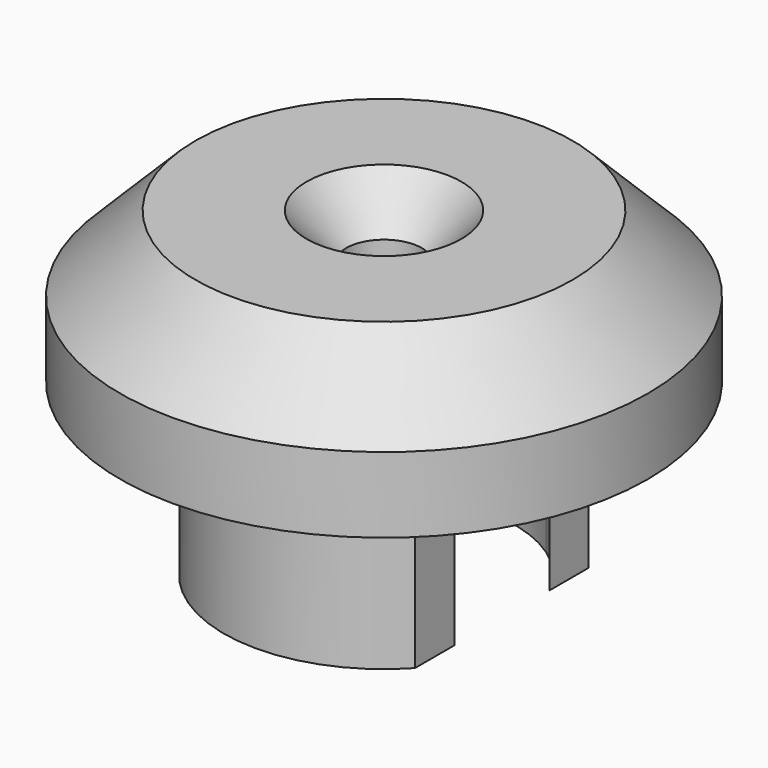
from build123d import *

# Parameters (mm, degrees)
F0_R           = 17.78
F1_DEPTH       = 10.16
F3_D           = 5.1054
F3_CSINK_D     = 10.4394
F3_CSINK_ANGLE = 82
F5_DEPTH       = 11.43
F4_R           = 6.35
F6_DEPTH       = 4.445
F7_SIZE        = 5.08


with BuildPart() as f1:
    # F0 (on Top) → F1 (new body)
    with BuildSketch(Plane.XY):
        Circle(F0_R)
    extrude(amount=F1_DEPTH)

    # F3 (through all)
    with Locations(Plane.XY.offset(10.16)):
        with Locations((0, 0)):
            CounterSinkHole(F3_D / 2, F3_CSINK_D / 2, counter_sink_angle=F3_CSINK_ANGLE)

    # F4 (on Top) → F5 (join)
    with BuildSketch(Plane.XY):
        with BuildLine():
            Line((5.0501466563, 7.3162913248), (7.9375, 7.3162913248))
            ThreePointArc((7.9375, 7.3162913248), (0, 10.795), (-7.9375, 7.3162913248))
            Line((-7.9375, 7.3162913248), (-5.0501466563, 7.3162913248))
            ThreePointArc((-5.0501466563, 7.3162913248), (0, 8.89), (5.0501466563, 7.3162913248))
        make_face()
        with BuildLine():
            Line((7.9375, 4.0035226676), (7.9375, 7.3162913248))
            Line((7.9375, 7.3162913248), (5.0501466563, 7.3162913248))
            ThreePointArc((5.0501466563, 7.3162913248), (6.7017423452, 5.8411257082), (7.9375, 4.0035226676))
        make_face()
        with BuildLine():
            Line((-5.0501466563, 7.3162913248), (-7.9375, 7.3162913248))
            Line((-7.9375, 7.3162913248), (-7.9375, 4.0035226676))
            ThreePointArc((-7.9375, 4.0035226676), (-6.7017423452, 5.8411257082), (-5.0501466563, 7.3162913248))
        make_face()
        with BuildLine():
            Line((-7.9375, -4.0035226676), (-7.9375, -7.3162913248))
            Line((-7.9375, -7.3162913248), (-5.0501466563, -7.3162913248))
            ThreePointArc((-5.0501466563, -7.3162913248), (-6.7017423452, -5.8411257082), (-7.9375, -4.0035226676))
        make_face()
        with BuildLine():
            ThreePointArc((-7.9375, -7.3162913248), (0, -10.795), (7.9375, -7.3162913248))
            Line((7.9375, -7.3162913248), (5.0501466563, -7.3162913248))
            ThreePointArc((5.0501466563, -7.3162913248), (0, -8.89), (-5.0501466563, -7.3162913248))
            Line((-5.0501466563, -7.3162913248), (-7.9375, -7.3162913248))
        make_face()
        with BuildLine():
            Line((5.0501466563, -7.3162913248), (7.9375, -7.3162913248))
            Line((7.9375, -7.3162913248), (7.9375, -4.0035226676))
            ThreePointArc((7.9375, -4.0035226676), (6.7017423452, -5.8411257082), (5.0501466563, -7.3162913248))
        make_face()
    extrude(amount=-F5_DEPTH)

    # F4 (on Top) → F6 (join)
    with BuildSketch(Plane.XY):
        with BuildLine():
            ThreePointArc((7.9375, 4.0035226676), (6.7017423452, 5.8411257082), (5.0501466563, 7.3162913248))
            Line((5.0501466563, 7.3162913248), (-5.0501466563, 7.3162913248))
            ThreePointArc((-5.0501466563, 7.3162913248), (-6.7017423452, 5.8411257082), (-7.9375, 4.0035226676))
            Line((-7.9375, 4.0035226676), (-7.9375, -4.0035226676))
            ThreePointArc((-7.9375, -4.0035226676), (-6.7017423452, -5.8411257082), (-5.0501466563, -7.3162913248))
            Line((-5.0501466563, -7.3162913248), (5.0501466563, -7.3162913248))
            ThreePointArc((5.0501466563, -7.3162913248), (6.7017423452, -5.8411257082), (7.9375, -4.0035226676))
            Line((7.9375, -4.0035226676), (7.9375, 4.0035226676))
        make_face()
        Circle(F4_R, mode=Mode.SUBTRACT)
        with BuildLine():
            ThreePointArc((-5.0501466563, -7.3162913248), (0, -8.89), (5.0501466563, -7.3162913248))
            Line((5.0501466563, -7.3162913248), (-5.0501466563, -7.3162913248))
        make_face()
        with BuildLine():
            Line((-5.0501466563, 7.3162913248), (5.0501466563, 7.3162913248))
            ThreePointArc((5.0501466563, 7.3162913248), (0, 8.89), (-5.0501466563, 7.3162913248))
        make_face()
    extrude(amount=-F6_DEPTH)

    # F7
    f7_edges = [f1.edges().sort_by_distance(p)[0] for p in [
        (-17.78, 0, 10.16),
    ]]
    chamfer(f7_edges, length=F7_SIZE)


solid = f1.part
